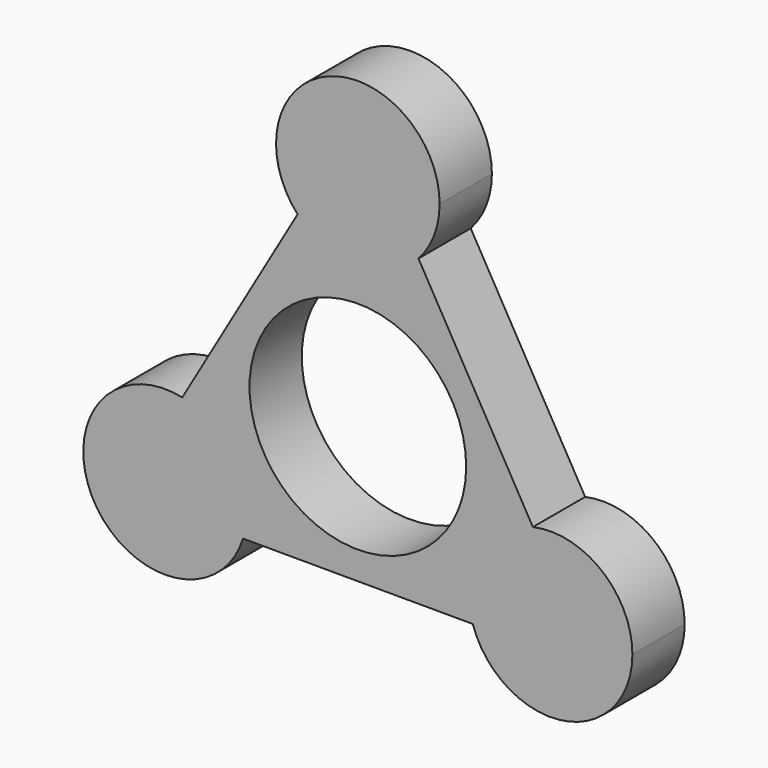
from build123d import *

# Parameters (mm, degrees)
F0_R     = 10.529297
F1_DEPTH = 6.35


with BuildPart() as f1:
    # F0 (on Front) → F1 (new body)
    with BuildSketch(Plane.XZ):
        with BuildLine():
            ThreePointArc((5.892567, 16.300569), (7.41634, 18.776229), (7.947971, 21.634225))
            ThreePointArc((7.947971, 21.634225), (-2.881801, 29.041347), (-5.858185, 16.262828))
            ThreePointArc((-5.858185, 16.262828), (0.025527, 13.686295), (5.892567, 16.300569))
        make_face()
        with BuildLine():
            ThreePointArc((5.892567, 16.300569), (0.025527, 13.686295), (-5.858185, 16.262828))
            Line((-5.858185, 16.262828), (-17.06299, -3.047171))
            ThreePointArc((-17.06299, -3.047171), (-12.552521, -5.823372), (-10.787818, -10.817112))
            ThreePointArc((-10.787818, -10.817112), (-10.880132, -12.02496), (-11.154929, -13.20475))
            Line((-11.154929, -13.20475), (11.170423, -13.253397))
            ThreePointArc((11.170423, -13.253397), (11.839916, -6.865255), (17.013114, -3.058077))
            Line((17.013114, -3.058077), (5.892567, 16.300569))
        make_face()
        Circle(F0_R, mode=Mode.SUBTRACT)
        with BuildLine():
            ThreePointArc((-10.787818, -10.817112), (-12.552521, -5.823372), (-17.06299, -3.047171))
            ThreePointArc((-17.06299, -3.047171), (-25.606134, -14.813184), (-11.154929, -13.20475))
            ThreePointArc((-11.154929, -13.20475), (-10.880132, -12.02496), (-10.787818, -10.817112))
        make_face()
        with BuildLine():
            ThreePointArc((26.683759, -10.817112), (23.709644, -4.617838), (17.013114, -3.058077))
            ThreePointArc((17.013114, -3.058077), (11.839916, -6.865255), (11.170423, -13.253397))
            ThreePointArc((11.170423, -13.253397), (19.968861, -18.668849), (26.683759, -10.817112))
        make_face()
    extrude(amount=F1_DEPTH)


solid = f1.part
